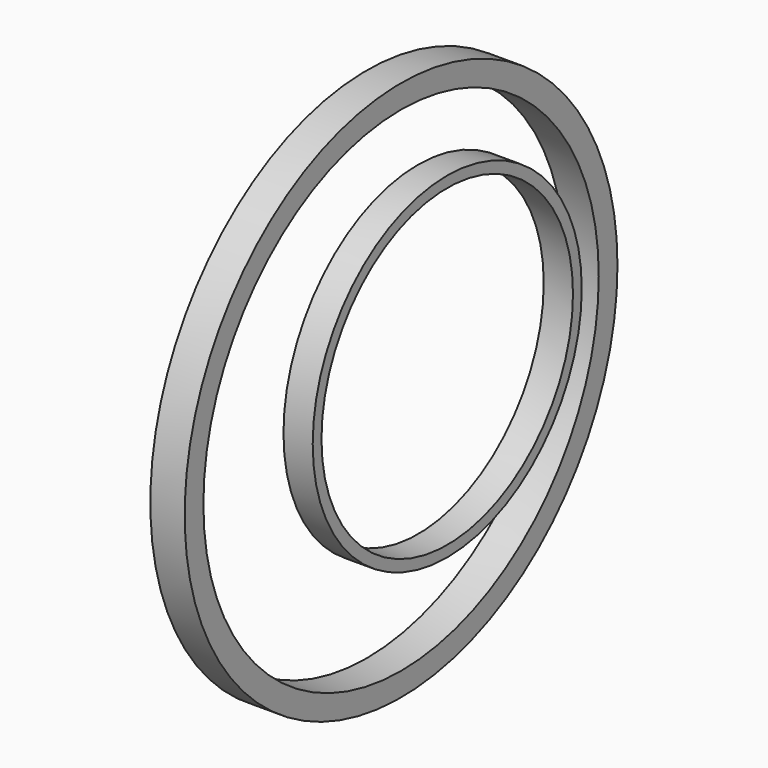
from build123d import *

# Parameters (mm, degrees)
F0_R     = 23
F0_R_2   = 21.5
F1_DEPTH = 4
F2_R     = 37
F2_R_2   = 33.8
F3_DEPTH = 4.7


with BuildPart() as f1:
    # F0 (on Right) → F1 (new body)
    with BuildSketch(Plane.YZ):
        with Locations((-166.564137, -19.187927)):
            Circle(F0_R)
        with Locations((-166.564137, -19.187927)):
            Circle(F0_R_2, mode=Mode.SUBTRACT)
    extrude(amount=F1_DEPTH)


with BuildPart() as f3:
    # F2 (on Right) → F3 (new body)
    with BuildSketch(Plane.YZ):
        with Locations((-175.331011, -18.262923)):
            Circle(F2_R)
        with Locations((-175.331011, -18.262923)):
            Circle(F2_R_2, mode=Mode.SUBTRACT)
    extrude(amount=F3_DEPTH)


solid = Compound([f1.part, f3.part])
